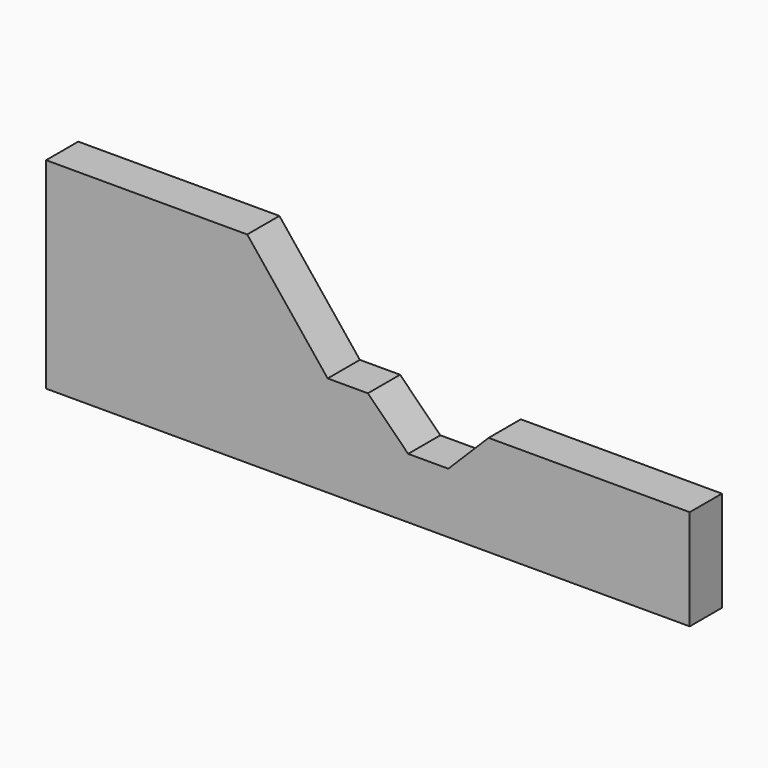
from build123d import *

# Parameters (mm, degrees)
EXTRUDE_DEPTH = 1000


with BuildPart() as part:
    # Sketch → Extrude (new body)
    with BuildSketch(Plane.XZ):
        Polygon((0, 0), (16000, 0), (16000, 2500), (11000, 2500), (10000, 1500), (9000, 1500), (8000, 2500), (7000, 2500), (5000, 5000), (0, 5000), align=None)
    extrude(amount=EXTRUDE_DEPTH)


solid = part.part
